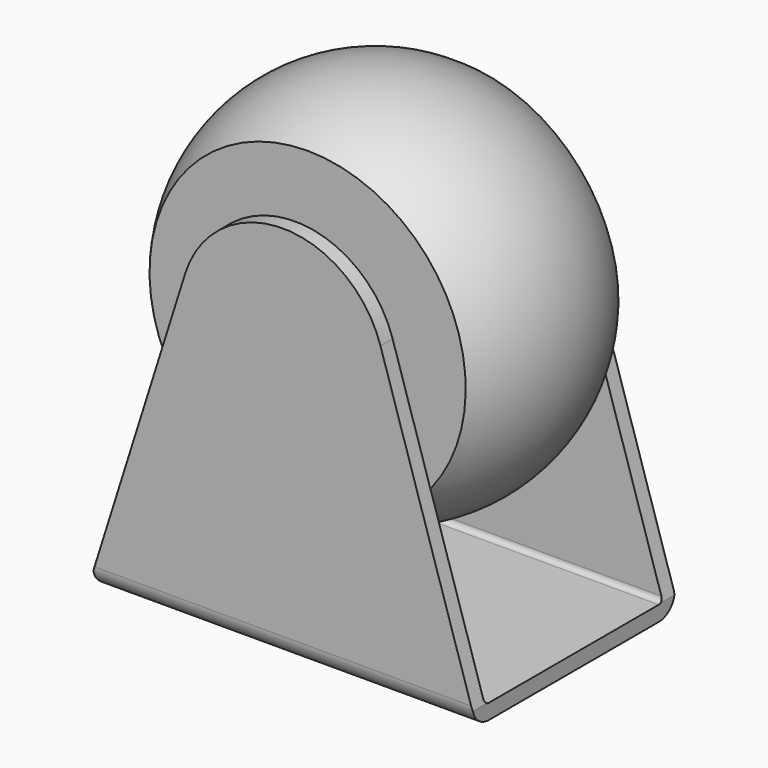
from build123d import *

# Parameters (mm, degrees)
F1_DEPTH = 12.7
F2_R     = 2.032
F3_T     = -1.524
F4_R     = 3.175
F5_DEPTH = 25.4


with BuildPart() as f1:
    # F0 (on Front) → F1 (new body, symmetric)
    with BuildSketch(Plane.XZ):
        with BuildLine():
            Line((19.05, -26.232438), (9.804269, 3.091274))
            ThreePointArc((9.804269, 3.091274), (0, 10.280062), (-9.804269, 3.091274))
            Line((-9.804269, 3.091274), (-19.05, -26.232438))
            Line((-19.05, -26.232438), (-19.05, -27.819938))
            Line((-19.05, -27.819938), (19.05, -27.819938))
            Line((19.05, -27.819938), (19.05, -26.232438))
        make_face()
    extrude(amount=F1_DEPTH, both=True)

    # F2
    f2_edges = [f1.edges().sort_by_distance(p)[0] for p in [
        (0, -12.7, -27.819938),
        (0, 12.7, -27.819938),
    ]]
    fillet(f2_edges, radius=F2_R)

    # F3
    f3_openings = [f1.faces().sort_by_distance(p)[0] for p in [
        (19.05, 0, -27.01023),
        (14.427045, 0, -11.570299),
        (0, 0, 10.280062),
        (-14.427045, 0, -11.570299),
        (-19.05, 0, -27.01023),
    ]]
    offset(amount=F3_T, openings=f3_openings)

    # F4 (on face) → F5 (join, through all)
    with BuildSketch(Plane(origin=(0, 12.7, 0), x_dir=(-1, 0, 0), z_dir=(0, 1, 0))):
        Circle(F4_R)
    extrude(amount=-F5_DEPTH)

    # F6 (on Right) → F7 (revolve)
    with BuildSketch(Plane.YZ):
        with BuildLine():
            Line((-9.5885, 15.875), (-9.5885, 0))
            Line((-9.5885, 0), (9.5885, 0))
            Line((9.5885, 0), (9.5885, 15.875))
            ThreePointArc((9.5885, 15.875), (0, 19.05), (-9.5885, 15.875))
        make_face()
    revolve(axis=Axis((0, -21.11639, 0), (0, -1, 0)))


solid = f1.part
